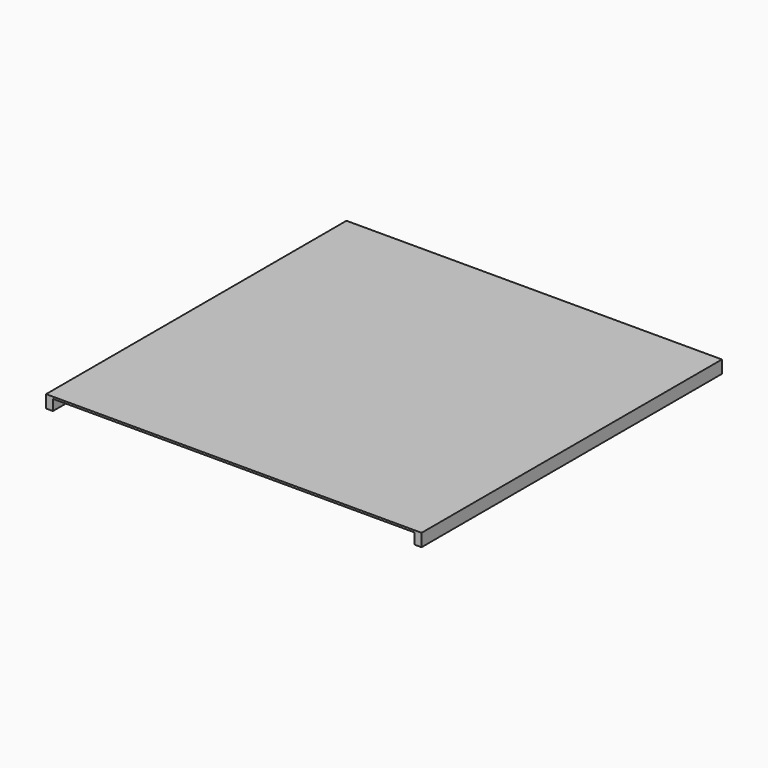
from build123d import *

# Parameters (mm, degrees)
F0_W     = 88.9
F0_H     = 139.7
F1_DEPTH = 2438.4


with BuildPart() as f1:
    # F0 (on Front) → F1 (new body, symmetric)
    with BuildSketch(Plane.XZ):
        Polygon((-2438.4, 25.4), (-2438.4, 0), (-2349.5, 0), (2349.5, 0), (2438.4, 0), (2438.4, 25.4), align=None)
        with Locations((-2393.95, -69.85)):
            Rectangle(F0_W, F0_H)
        with Locations((2393.95, -69.85)):
            Rectangle(F0_W, F0_H)
    extrude(amount=F1_DEPTH, both=True)


solid = f1.part
